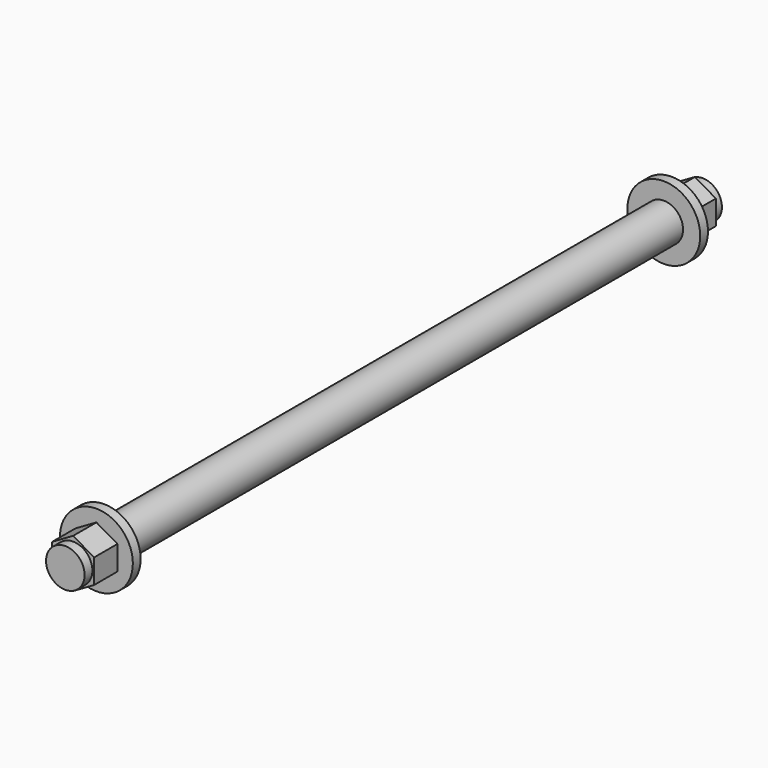
from build123d import *

# Parameters (mm, degrees)
SKETCH013_R     = 3.96875
PAD009_DEPTH    = 164
SKETCH014_R     = 7.5
PAD010_DEPTH    = 10
SKETCH015_R     = 7.5
POCKET003_DEPTH = 8
SKETCH016_R     = 7.5
SKETCH016_R_2   = 3.96875
POCKET004_DEPTH = 2
SKETCH017_R     = 7.5
PAD011_DEPTH    = 10
SKETCH018_R     = 7.5
POCKET005_DEPTH = 8
SKETCH019_R     = 7.5
SKETCH019_R_2   = 3.96875
POCKET006_DEPTH = 2


with BuildPart() as part:
    # Sketch013 → Pad009 (new body)
    with BuildSketch(Plane(origin=(500, 82, 56), x_dir=(1, 0, 0), z_dir=(0, -1, 0))):
        Circle(SKETCH013_R)
    extrude(amount=PAD009_DEPTH)

    # Sketch014 → Pad010 (new body)
    with BuildSketch(Plane(origin=(500, 82, 56), x_dir=(1, 0, 0), z_dir=(0, 1, 0))):
        Circle(SKETCH014_R)
    extrude(amount=-PAD010_DEPTH)

    # Sketch015 → Pocket003 (cut)
    with BuildSketch(Plane(origin=(500, 82, 56), x_dir=(1, 0, 0), z_dir=(0, 1, 0))):
        Circle(SKETCH015_R)
        Polygon((0, 5), (-4.330127, 2.5), (-4.330127, -2.5), (0, -5), (4.330127, -2.5), (4.330127, 2.5), align=None, mode=Mode.SUBTRACT)
    extrude(amount=-POCKET003_DEPTH, mode=Mode.SUBTRACT)

    # Sketch016 → Pocket004 (cut)
    with BuildSketch(Plane(origin=(500, 82, 56), x_dir=(1, 0, 0), z_dir=(0, 1, 0))):
        Circle(SKETCH016_R)
        Circle(SKETCH016_R_2, mode=Mode.SUBTRACT)
    extrude(amount=-POCKET004_DEPTH, mode=Mode.SUBTRACT)

    # Sketch017 → Pad011 (new body)
    with BuildSketch(Plane(origin=(500, -82, 56), x_dir=(1, 0, 0), z_dir=(0, -1, 0))):
        Circle(SKETCH017_R)
    extrude(amount=-PAD011_DEPTH)

    # Sketch018 → Pocket005 (cut)
    with BuildSketch(Plane(origin=(500, -82, 56), x_dir=(1, 0, 0), z_dir=(0, -1, 0))):
        Circle(SKETCH018_R)
        Polygon((0, 5), (-4.330127, 2.5), (-4.330127, -2.5), (0, -5), (4.330127, -2.5), (4.330127, 2.5), align=None, mode=Mode.SUBTRACT)
    extrude(amount=-POCKET005_DEPTH, mode=Mode.SUBTRACT)

    # Sketch019 → Pocket006 (cut)
    with BuildSketch(Plane(origin=(500, -82, 56), x_dir=(1, 0, 0), z_dir=(0, -1, 0))):
        Circle(SKETCH019_R)
        Circle(SKETCH019_R_2, mode=Mode.SUBTRACT)
    extrude(amount=-POCKET006_DEPTH, mode=Mode.SUBTRACT)


with BuildPart() as part_1:
    # Clone012 placement: moved
    add(part.part.moved(Location((-48.5, 0, -28))))


solid = part_1.part
